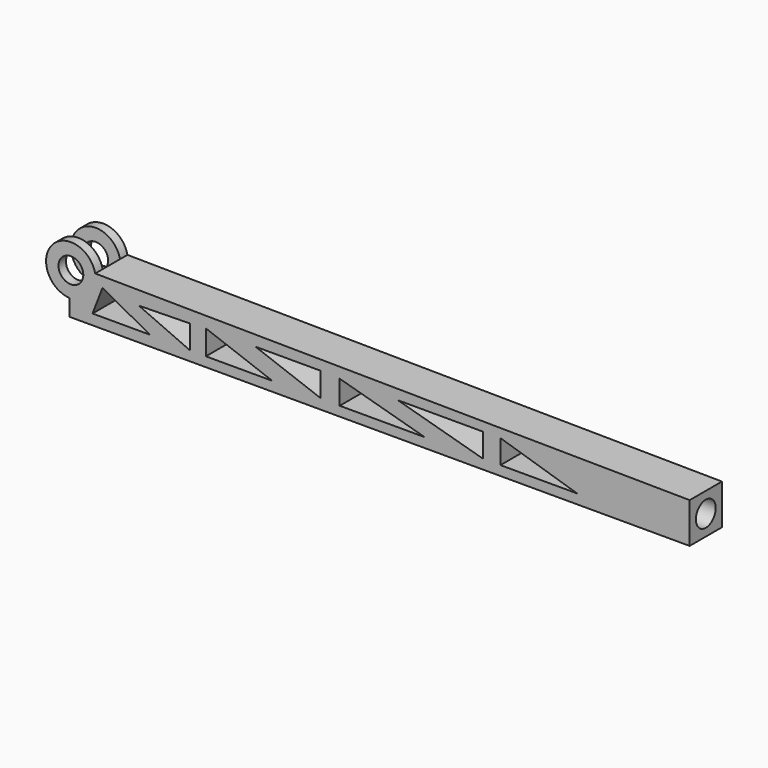
from build123d import *

# Parameters (mm, degrees)
F0_W      = 200
F0_H      = 13
F1_DEPTH  = 15
F2_R      = 8
F3_DEPTH  = 3
F4_R      = 8
F5_DEPTH  = 3
F6_R      = 4
F7_DEPTH  = 13
F8_R      = 8
F9_DEPTH  = 7
F11_DEPTH = 25
F12_R     = 4
F13_DEPTH = 25
F15_DEPTH = 25


with BuildPart() as f1:
    # F0 (on Top) → F1 (new body)
    with BuildSketch(Plane.XY):
        with Locations((69.0846356191, 17.0292752752)):
            Rectangle(F0_W, F0_H)
    extrude(amount=F1_DEPTH)

    # F2 (on face) → F3 (join)
    with BuildSketch(Plane.XZ.offset(-10.5292752752)):
        with Locations((-30.4153643809, 13.36)):
            Circle(F2_R)
    extrude(amount=-F3_DEPTH)

    # F4 (on face) → F5 (join)
    with BuildSketch(Plane(origin=(0, 23.5292752752, 0), x_dir=(-1, 0, 0), z_dir=(0, 1, 0))):
        with Locations((30.4153643809, 13.36)):
            Circle(F4_R)
    extrude(amount=-F5_DEPTH)

    # F6 (on face) → F7 (cut)
    with BuildSketch(Plane(origin=(0, 23.5292752752, 0), x_dir=(-1, 0, 0), z_dir=(0, 1, 0))):
        with Locations((30.4153643809, 13.36)):
            Circle(F6_R)
    extrude(amount=-F7_DEPTH, mode=Mode.SUBTRACT)

    # F8 (on face) → F9 (cut)
    with BuildSketch(Plane.XZ.offset(-20.5292752752)):
        with Locations((-30.4153643809, 13.36)):
            Circle(F8_R)
    extrude(amount=F9_DEPTH, mode=Mode.SUBTRACT)

    # F10 (on face) → F11 (cut)
    with BuildSketch(Plane.XZ.offset(-10.5292752752)):
        Polygon((169.0846356191, 15), (-22.5852685961, 15), (169.0846356191, 13), align=None)
    extrude(amount=-F11_DEPTH, mode=Mode.SUBTRACT)

    # F12 (on face) → F13 (cut)
    with BuildSketch(Plane.YZ.offset(169.0846356191)):
        with Locations((17.0292752752, 6.5)):
            Circle(F12_R)
    extrude(amount=-F13_DEPTH, mode=Mode.SUBTRACT)

    # F14 (on face) → F15 (cut)
    with BuildSketch(Plane(origin=(0, 23.5292752752, 0), x_dir=(-1, 0, 0), z_dir=(0, 1, 0))):
        Polygon((23.4402101487, 3.3569312654), (20.2043242753, 11.7502389476), (4.9986368977, 3.3569312654), align=None)
        Polygon((-8.0218771473, 3.0973160174), (8.4835188463, 10.455628857), (-8.0218771473, 10.7478844002), align=None)
        Polygon((-34.541686737, 3.0973160174), (-13.1043503061, 3.0973160174), (-13.1043503061, 11.0331652686), align=None)
        Polygon((-50.001192838, 3.2930115703), (-29.0924943984, 11.0331652686), (-50.001192838, 11.0331652686), align=None)
        Polygon((-83.6627408862, 3.0973160174), (-56.263808161, 3.0973160174), (-56.263808161, 10.7733560726), align=None)
        Polygon((-102.4060808122, 3.0973160174), (-75.007148087, 10.7733560726), (-102.4060808122, 10.7733560726), align=None)
        Polygon((-132.8051537275, 3.0973160174), (-108.0802679062, 3.0973160174), (-108.0802679062, 10.7733560726), align=None)
    extrude(amount=-F15_DEPTH, mode=Mode.SUBTRACT)


solid = f1.part
